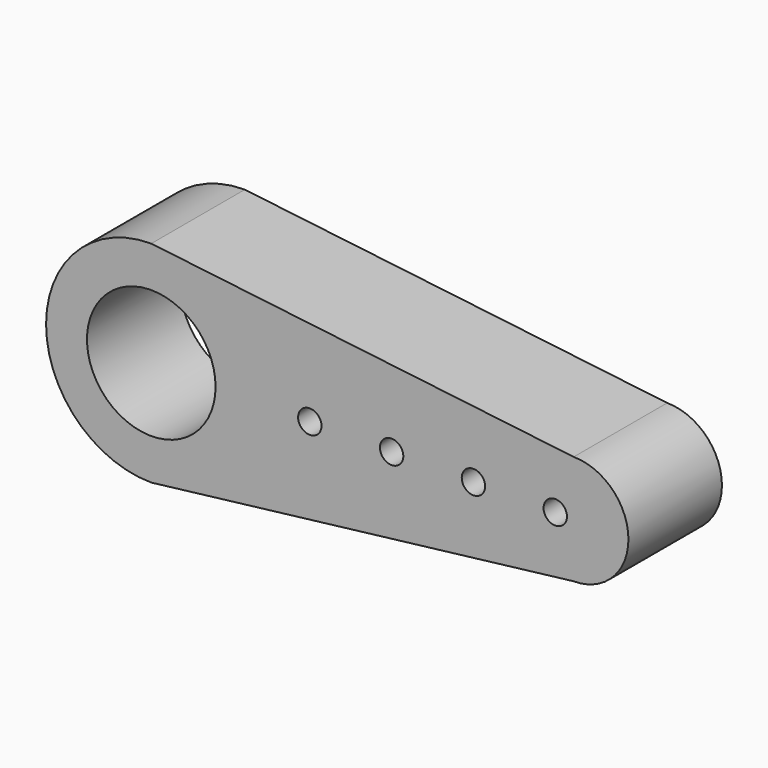
from build123d import *

# Parameters (mm, degrees)
F0_R     = 0.55
F1_DEPTH = 1


with BuildPart() as f1:
    # F0 (on Front) → F1 (new body)
    with BuildSketch(Plane.XZ):
        with BuildLine():
            Line((-19.952511, 25.059854), (-23.566264, 25.491481))
            ThreePointArc((-23.566264, 25.491481), (-24.466264, 24.591481), (-23.566264, 23.691481))
            Line((-23.566264, 23.691481), (-19.952511, 24.123108))
            ThreePointArc((-19.952511, 24.123108), (-19.484139, 24.591481), (-19.952511, 25.059854))
        make_face()
        with Locations((-23.566264, 24.591481)):
            Circle(F0_R, mode=Mode.SUBTRACT)
        with BuildLine():
            ThreePointArc((-22.110037, 24.591481), (-22.210037, 24.491481), (-22.310037, 24.591481))
            ThreePointArc((-22.310037, 24.591481), (-22.210037, 24.691481), (-22.110037, 24.591481))
        make_face(mode=Mode.SUBTRACT)
        with BuildLine():
            ThreePointArc((-21.410037, 24.591481), (-21.510037, 24.491481), (-21.610037, 24.591481))
            ThreePointArc((-21.610037, 24.591481), (-21.510037, 24.691481), (-21.410037, 24.591481))
        make_face(mode=Mode.SUBTRACT)
        with BuildLine():
            ThreePointArc((-20.710037, 24.591481), (-20.810037, 24.491481), (-20.910037, 24.591481))
            ThreePointArc((-20.910037, 24.591481), (-20.810037, 24.691481), (-20.710037, 24.591481))
        make_face(mode=Mode.SUBTRACT)
        with BuildLine():
            ThreePointArc((-20.010037, 24.591481), (-20.110037, 24.491481), (-20.210037, 24.591481))
            ThreePointArc((-20.210037, 24.591481), (-20.110037, 24.691481), (-20.010037, 24.591481))
        make_face(mode=Mode.SUBTRACT)
    extrude(amount=F1_DEPTH)


solid = f1.part
